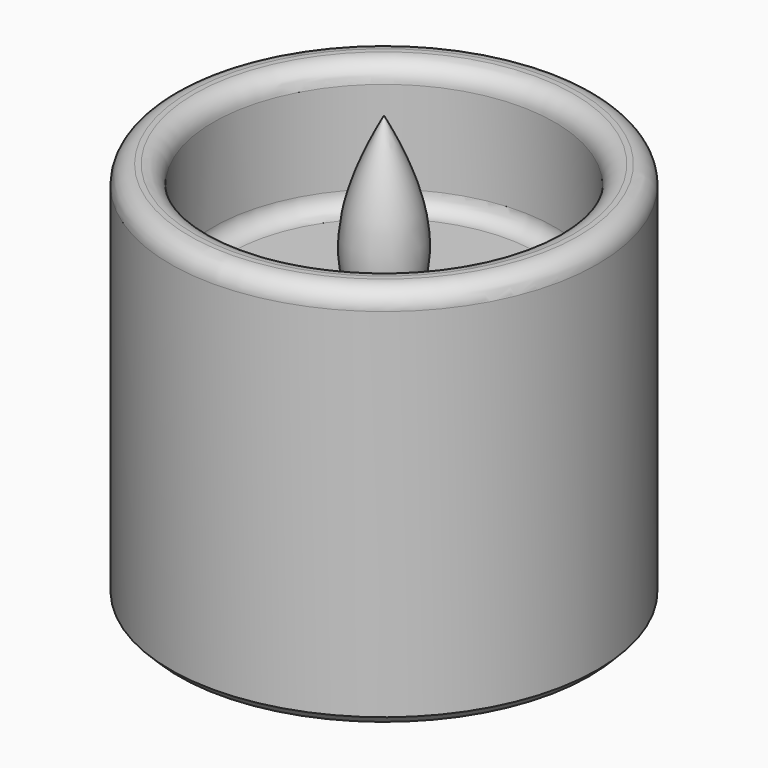
from build123d import *

# Parameters (mm, degrees)
SKETCH_R        = 25
PAD_DEPTH       = 45
SKETCH001_R     = 20
POCKET_DEPTH    = 15
FILLET_R        = 2.2
SKETCH002_R     = 20
POCKET001_DEPTH = 15
SKETCH003_R     = 2.55
POCKET002_DEPTH = 30.001
CHAMFER_SIZE    = 1
FILLET002_R     = 2
SKETCH006_R     = 2.4
PAD001_DEPTH    = 2
SKETCH009_R     = 2.7
PAD003_DEPTH    = 1
SKETCH010_R     = 2.5
PAD004_DEPTH    = 5.5
SKETCH011_R     = 2.5
PAD005_DEPTH    = 1.2
FILLET001_R     = 1.1
SKETCH012_W     = 0.3
SKETCH012_H     = 0.3
PAD006_DEPTH    = 17


with BuildPart() as candle:
    # Sketch → Pad (new body)
    with BuildSketch(Plane.XY):
        Circle(SKETCH_R)
    extrude(amount=PAD_DEPTH)

    # Sketch001 (on Face3 of Pad) → Pocket (cut)
    with BuildSketch(Plane.XY.offset(45)):
        Circle(SKETCH001_R)
    extrude(amount=-POCKET_DEPTH, mode=Mode.SUBTRACT)

    # Fillet
    fillet_edges = [candle.edges().sort_by_distance(p)[0] for p in [
        (-25, 0, 45),
        (-20, 0, 45),
    ]]
    fillet(fillet_edges, radius=FILLET_R)

    # Sketch002 (on Face3 of Fillet) → Pocket001 (cut)
    with BuildSketch(Plane(origin=(0, 0, 0), x_dir=(1, 0, 0), z_dir=(0, 0, -1))):
        Circle(SKETCH002_R)
    extrude(amount=-POCKET001_DEPTH, mode=Mode.SUBTRACT)

    # Sketch003 (on Face7 of Pocket001) → Pocket002 (cut, through all)
    with BuildSketch(Plane(origin=(0, 0, 15), x_dir=(1, 0, 0), z_dir=(0, 0, -1))):
        Circle(SKETCH003_R)
    extrude(amount=-POCKET002_DEPTH, mode=Mode.SUBTRACT)

    # Chamfer
    chamfer_edges = [candle.edges().sort_by_distance(p)[0] for p in [
        (-25, 0, 0),
    ]]
    chamfer(chamfer_edges, length=CHAMFER_SIZE)

    # Fillet002
    fillet002_edges = [candle.edges().sort_by_distance(p)[0] for p in [
        (-20, 0, 30),
    ]]
    fillet(fillet002_edges, radius=FILLET002_R)


with BuildPart() as fire:
    # Sketch005 → Revolution (revolve)
    with BuildSketch(Plane.XZ):
        with BuildLine():
            add(Edge.make_bspline(
                [(0, 20), (-7, 7), (-2.4, 0)],
                knots=[0, 0, 0, 1, 1, 1], degree=2))
            Line((-2.4, 0), (0, 0))
            Line((0, 0), (0, 7))
            Line((0, 7), (0, 14))
            Line((0, 14), (0, 20))
        make_face()
    revolve(axis=Axis((0, 0, 0), (0, 0, 1)))

    # Sketch006 (on Face2 of Revolution) → Pad001 (new body)
    with BuildSketch(Plane(origin=(0, 0, 0), x_dir=(1, 0, 0), z_dir=(0, 0, -1))):
        Circle(SKETCH006_R)
    extrude(amount=PAD001_DEPTH)


with BuildPart() as fire_1:
    # Body001 placement: moved
    add(fire.part.moved(Location((0, 0, 30))))


with BuildPart() as led:
    # Sketch009 → Pad003 (new body)
    with BuildSketch(Plane.XY):
        Circle(SKETCH009_R)
    extrude(amount=PAD003_DEPTH)

    # Sketch010 (on Face3 of Pad003) → Pad004 (join)
    with BuildSketch(Plane.XY.offset(1)):
        Circle(SKETCH010_R)
    extrude(amount=PAD004_DEPTH)

    # Sketch011 (on Face5 of Pad004) → Pad005 (join)
    with BuildSketch(Plane.XY.offset(6.5)):
        Circle(SKETCH011_R)
    extrude(amount=PAD005_DEPTH)

    # Fillet001
    fillet001_edges = [led.edges().sort_by_distance(p)[0] for p in [
        (-2.5, 0, 7.7),
    ]]
    fillet(fillet001_edges, radius=FILLET001_R)

    # Sketch012 (on Face7 of Fillet001) → Pad006 (join)
    with BuildSketch(Plane(origin=(0, 0, 0), x_dir=(1, 0, 0), z_dir=(0, 0, -1))):
        with Locations((-1.35, 0)):
            Rectangle(SKETCH012_W, SKETCH012_H)
    pad006 = extrude(amount=PAD006_DEPTH)

    # Mirrored: Pad006 across Sketch012 V_Axis
    add(pad006.mirror(Plane(origin=(0, 0, 0), x_dir=(0, 0, -1), z_dir=(1, 0, 0))))


with BuildPart() as led_1:
    # Body002 placement: moved
    add(led.part.moved(Location((0, 0, 14))))


solid = Compound([candle.part, fire_1.part, led_1.part])
